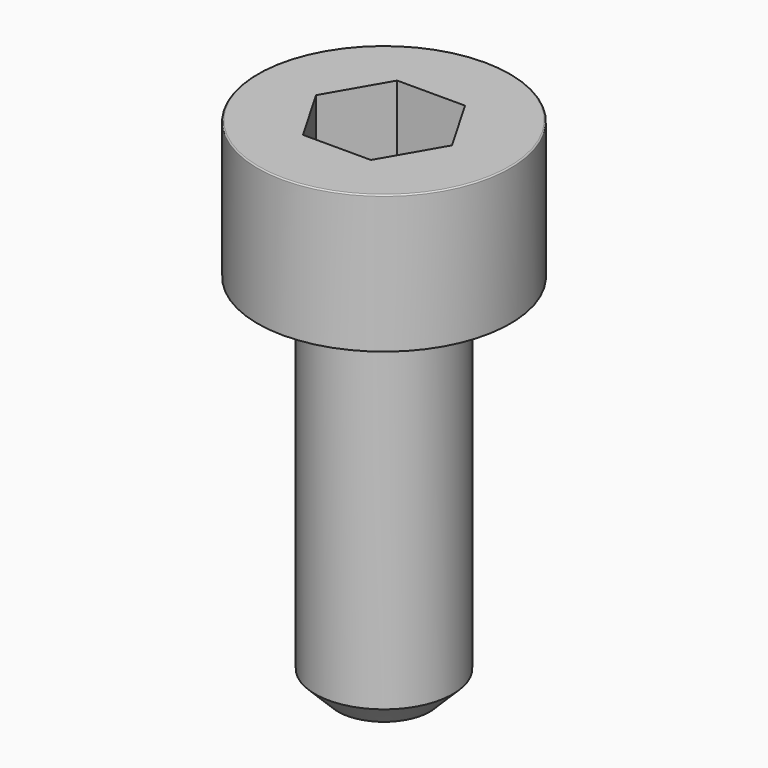
from build123d import *

# Parameters (mm, degrees)
POCKET_DEPTH = 2.56


with BuildPart() as part:
    # Sketch → Revolve (revolve)
    with BuildSketch(Plane.YZ):
        with BuildLine():
            Line((1.499, 0), (2.75, 0))
            Line((2.75, 0), (2.75, 2.97229))
            ThreePointArc((2.75, 2.97229), (2.741884, 2.991884), (2.72229, 3))
            Line((2.72229, 3), (0, 3))
            Line((0, -8), (0, 3))
            Line((1, -8), (0, -8))
            Line((1.5, -7.5), (1, -8))
            Line((1.5, -0.2), (1.5, -7.5))
            Line((1.499, 0), (1.5, -0.2))
        make_face()
    revolve(axis=Axis((0, 0, 0), (0, 0, 1)))

    # Sketch001 → Pocket (cut)
    with BuildSketch(Plane.XY.offset(3)):
        Polygon((1.478017, 0), (0.739008, 1.28), (-0.739008, 1.28), (-1.478017, 0), (-0.739008, -1.28), (0.739008, -1.28), align=None)
    extrude(amount=-POCKET_DEPTH, mode=Mode.SUBTRACT)


solid = part.part
